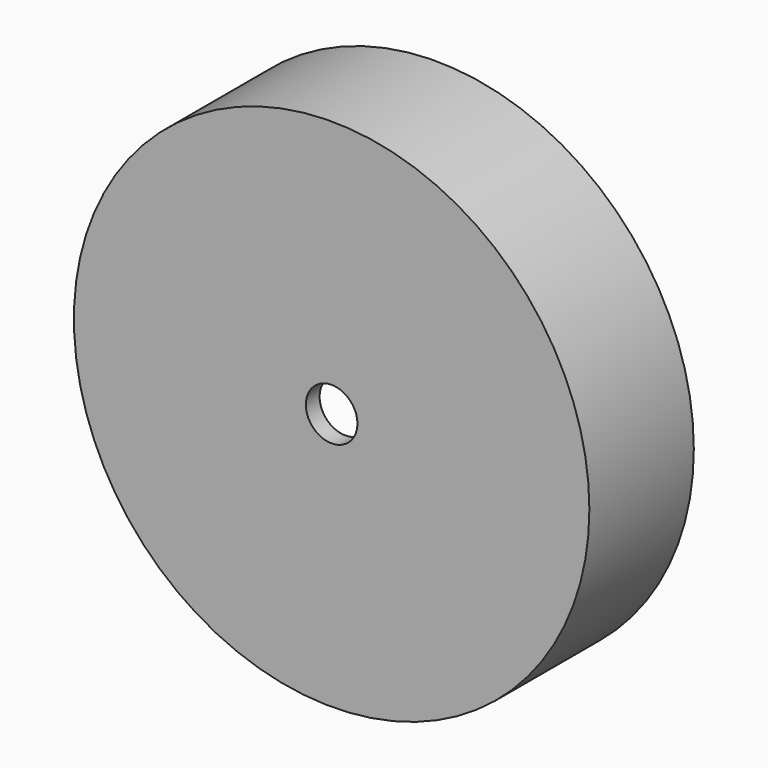
from build123d import *

# Parameters (mm, degrees)
F0_R     = 37.5
F1_DEPTH = 19
F2_T     = -2.5
F3_R     = 3.75
F4_DEPTH = 19.001
F6_DEPTH = 4
F8_DEPTH = 4


with BuildPart() as f1:
    # F0 (on Front) → F1 (new body)
    with BuildSketch(Plane.XZ):
        Circle(F0_R)
    extrude(amount=F1_DEPTH)

    # F2
    f2_openings = [f1.faces().sort_by_distance(p)[0] for p in [
        (0, 0, 0),
    ]]
    offset(amount=F2_T, openings=f2_openings)

    # F3 (on face) → F4 (cut, through all)
    with BuildSketch(Plane.XZ.offset(19)):
        Circle(F3_R)
    extrude(amount=-F4_DEPTH, mode=Mode.SUBTRACT)

    # F5 (on face) → F6 (join)
    with BuildSketch(Plane(origin=(0, 0, 0), x_dir=(-1, 0, 0), z_dir=(0, 1, 0))):
        with BuildLine():
            ThreePointArc((21.3985376308, 27.696616892), (0, 35), (-21.3985376308, 27.696616892))
            Line((-21.3985376308, 27.696616892), (21.3985376308, 27.696616892))
        make_face()
    extrude(amount=-F6_DEPTH)

    # F7 (on face) → F8 (join)
    with BuildSketch(Plane(origin=(0, 0, 0), x_dir=(-1, 0, 0), z_dir=(0, 1, 0))):
        with BuildLine():
            Line((21.3985376308, -27.696616892), (-21.3985376308, -27.696616892))
            ThreePointArc((-21.3985376308, -27.696616892), (0, -35), (21.3985376308, -27.696616892))
        make_face()
    extrude(amount=-F8_DEPTH)


solid = f1.part
